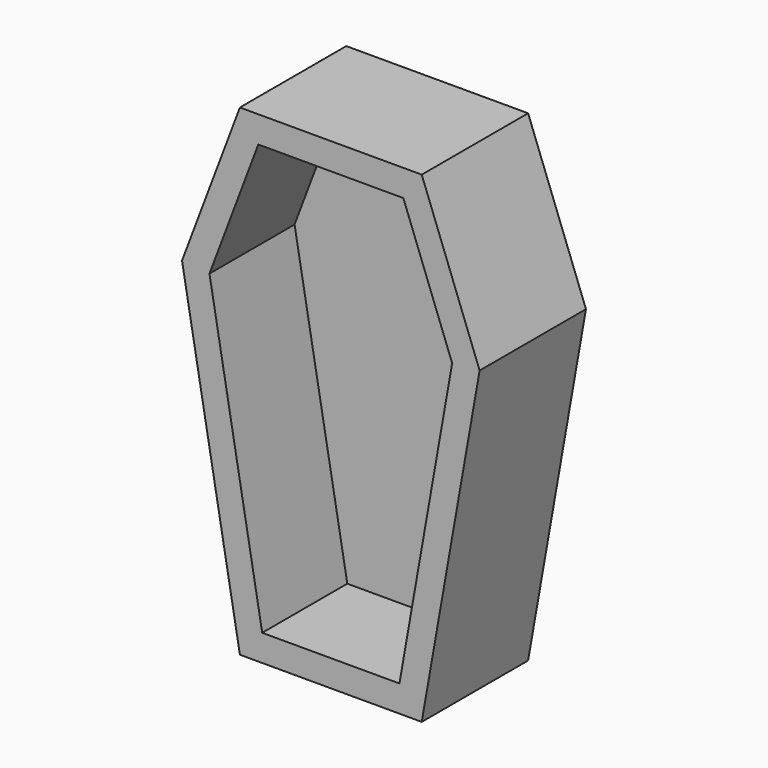
from build123d import *

# Parameters (mm, degrees)
F1_DEPTH = 25.4
F2_T     = -5.08


with BuildPart() as f1:
    # F0 (on Front) → F1 (new body)
    with BuildSketch(Plane.XZ):
        Polygon((-22.874142, 10.406458), (-11.819352, -52.288373), (22.920275, -52.288373), (33.975066, 10.406458), (22.920275, 39.753201), (-11.819352, 39.753201), align=None)
    extrude(amount=-F1_DEPTH)

    # F2
    f2_openings = [f1.faces().sort_by_distance(p)[0] for p in [
        (5.550462, 0, -4.925879),
    ]]
    offset(amount=F2_T, openings=f2_openings)


solid = f1.part
